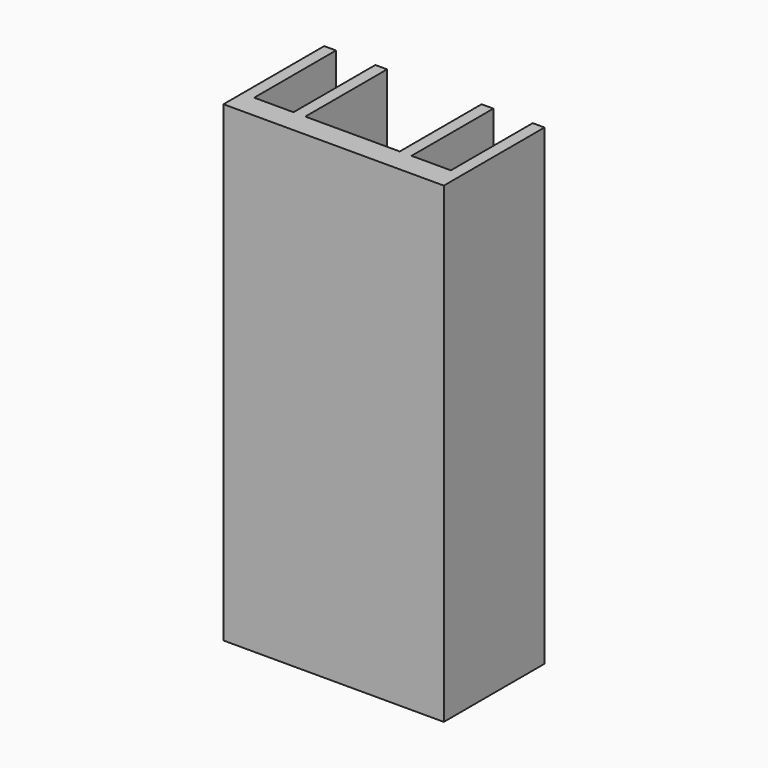
from build123d import *

# Parameters (mm, degrees)
EXTRUDE_DEPTH                     = 60
EXTRUDE_ONTO_WIRE_PLACEMENT_ANGLE = 3.1e-05


with BuildPart() as part:
    # Wire as drawn → Extrude (new)
    with BuildSketch(Plane.XY):
        Polygon((0, 0), (28, 0), (28, 16), (26.5, 16), (26.5, 3), (21.5, 3), (21.5, 16), (20, 16), (20, 3), (8, 3), (8, 16), (6.5, 16), (6.5, 3), (1.5, 3), (1.5, 16), (0, 16), align=None)
    extrude(amount=EXTRUDE_DEPTH)


with BuildPart() as part_1:
    # Extrude onto Wire placement: moved
    add(part.part.moved(Location((6.431091, 1.659197, 0))).rotate(Axis((6.431091, 1.659197, 0), (0, 0, 1)), EXTRUDE_ONTO_WIRE_PLACEMENT_ANGLE))


solid = part_1.part
